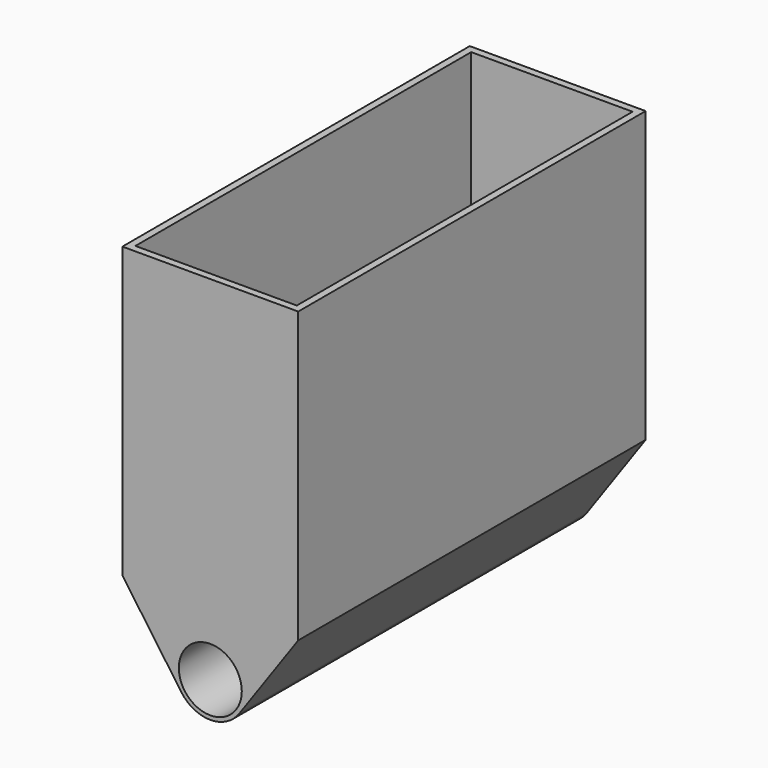
from build123d import *

# Parameters (mm, degrees)
F0_R          = 11.049
F1_DEPTH      = 76.2
F1_DEPTH_BACK = 76.2
F2_W          = 61.722
F2_H          = 152.4
F3_DEPTH      = 101.6
F4_T          = -2.54


with BuildPart() as f1:
    # F0 (on Front) → F1 (new body, two sides)
    with BuildSketch(Plane.XZ) as f1_sk:
        with BuildLine():
            ThreePointArc((10.170598, -40.91247), (11.863519, -37.501733), (12.446, -33.738778))
            ThreePointArc((12.446, -33.738778), (-3.762954, -21.875259), (-10.170598, -40.91247))
            ThreePointArc((-10.170598, -40.91247), (0, -46.184778), (10.170598, -40.91247))
        make_face()
        with Locations((0, -33.738778)):
            Circle(F0_R, mode=Mode.SUBTRACT)
        with BuildLine():
            ThreePointArc((-10.170598, -40.91247), (-3.762954, -21.875259), (12.446, -33.738778))
            ThreePointArc((12.446, -33.738778), (11.863519, -37.501733), (10.170598, -40.91247))
            Line((10.170598, -40.91247), (30.861, -11.578374))
            Line((30.861, -11.578374), (0, -11.578374))
            Line((0, -11.578374), (-30.861, -11.578374))
            Line((-30.861, -11.578374), (-10.170598, -40.91247))
        make_face()
    extrude(amount=F1_DEPTH)
    extrude(f1_sk.sketch, amount=-F1_DEPTH_BACK)

    # F2 (on face) → F3 (join)
    with BuildSketch(Plane.XY.offset(-11.578374)):
        Rectangle(F2_W, F2_H)
    extrude(amount=F3_DEPTH)

    # F4
    f4_openings = [f1.faces().sort_by_distance(p)[0] for p in [
        (0, 0, 90.021626),
    ]]
    offset(amount=F4_T, openings=f4_openings)


solid = f1.part
